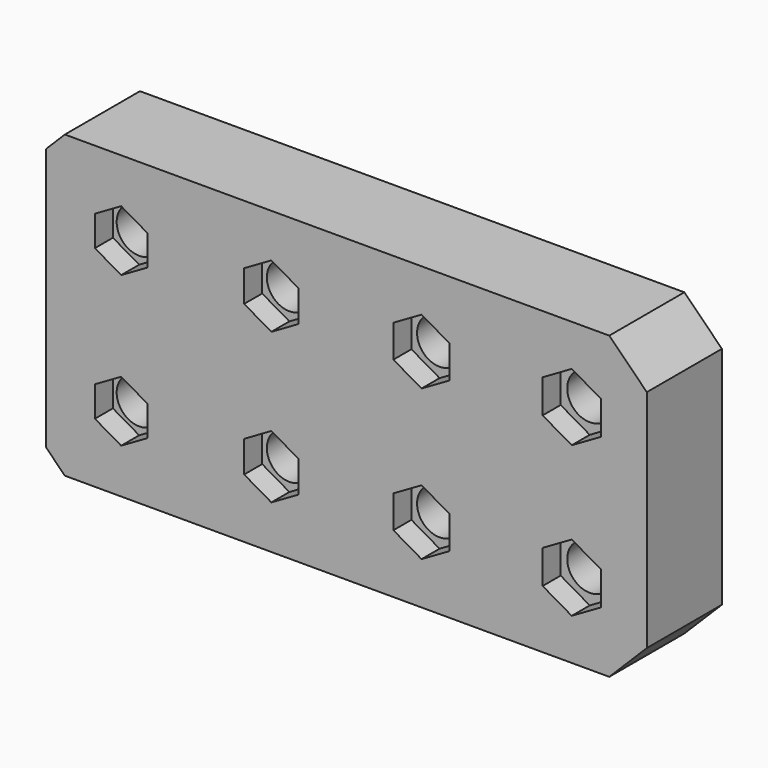
from build123d import *

# Parameters (mm, degrees)
SKETCH_W                    = 32
SKETCH_H                    = 16
PAD_DEPTH                   = 5
SKETCH001_R                 = 1.2
HOLE_DEPTH                  = 77.250567
SKETCH001_LINEARPATTERN_2_R = 1.2
HOLE_LINEARPATTERN_2_DEPTH  = 77.250567
SKETCH001_LINEARPATTERN_3_R = 1.2
HOLE_LINEARPATTERN_3_DEPTH  = 77.250567
SKETCH001_LINEARPATTERN_4_R = 1.2
HOLE_LINEARPATTERN_4_DEPTH  = 77.250567
LINEARPATTERN001_COUNT      = 2
LINEARPATTERN001_PITCH      = 8
POCKET_DEPTH                = 1.2
LINEARPATTERN002_COUNT      = 2
LINEARPATTERN002_PITCH      = 8
CHAMFER_SIZE                = 1
CHAMFER001_SIZE             = 2


with BuildPart() as part:
    # Sketch → Pad (new body)
    with BuildSketch(Plane.XZ):
        with Locations((16, 8)):
            Rectangle(SKETCH_W, SKETCH_H)
    extrude(amount=-PAD_DEPTH)

    # Sketch001 (on Face5 of Pad) → Hole (cut, through all)
    with BuildSketch(Plane.XZ):
        with Locations((4, 4)):
            Circle(SKETCH001_R)
    hole = extrude(amount=-HOLE_DEPTH, mode=Mode.SUBTRACT)

    # Sketch001 LinearPattern 2 → Hole LinearPattern 2 (cut, through all)
    with BuildSketch(Plane(origin=(8, 0, 0), x_dir=(1, 0, 0), z_dir=(0, -1, 0))):
        with Locations((4, 4)):
            Circle(SKETCH001_LINEARPATTERN_2_R)
    hole_linearpattern_2 = extrude(amount=-HOLE_LINEARPATTERN_2_DEPTH, mode=Mode.SUBTRACT)

    # Sketch001 LinearPattern 3 → Hole LinearPattern 3 (cut, through all)
    with BuildSketch(Plane(origin=(16, 0, 0), x_dir=(1, 0, 0), z_dir=(0, -1, 0))):
        with Locations((4, 4)):
            Circle(SKETCH001_LINEARPATTERN_3_R)
    hole_linearpattern_3 = extrude(amount=-HOLE_LINEARPATTERN_3_DEPTH, mode=Mode.SUBTRACT)

    # Sketch001 LinearPattern 4 → Hole LinearPattern 4 (cut, through all)
    with BuildSketch(Plane(origin=(24, 0, 0), x_dir=(1, 0, 0), z_dir=(0, -1, 0))):
        with Locations((4, 4)):
            Circle(SKETCH001_LINEARPATTERN_4_R)
    hole_linearpattern_4 = extrude(amount=-HOLE_LINEARPATTERN_4_DEPTH, mode=Mode.SUBTRACT)

    # LinearPattern001: Hole, Hole LinearPattern 2, Hole LinearPattern 3, Hole LinearPattern 4 ×2
    with Locations(*[(0, 0, i * LINEARPATTERN001_PITCH) for i in range(1, LINEARPATTERN001_COUNT)]):
        add(hole, mode=Mode.SUBTRACT)
        add(hole_linearpattern_2, mode=Mode.SUBTRACT)
        add(hole_linearpattern_3, mode=Mode.SUBTRACT)
        add(hole_linearpattern_4, mode=Mode.SUBTRACT)

    # Sketch002 (on Face4 of MultiTransform) → Pocket (cut)
    with BuildSketch(Plane.XZ):
        Polygon((4, 5.616581), (2.6, 4.80829), (2.6, 3.19171), (4, 2.383419), (5.4, 3.19171), (5.4, 4.80829), align=None)
        Polygon((12, 5.674316), (10.55, 4.837158), (10.55, 3.162842), (12, 2.325684), (13.45, 3.162842), (13.45, 4.837158), align=None)
        Polygon((20, 5.732051), (18.5, 4.866025), (18.5, 3.133975), (20, 2.267949), (21.5, 3.133975), (21.5, 4.866025), align=None)
        Polygon((28, 5.789786), (26.45, 4.894893), (26.45, 3.105107), (28, 2.210214), (29.55, 3.105107), (29.55, 4.894893), align=None)
    pocket = extrude(amount=-POCKET_DEPTH, mode=Mode.SUBTRACT)

    # LinearPattern002: Pocket ×2
    with Locations(*[(0, 0, i * LINEARPATTERN002_PITCH) for i in range(1, LINEARPATTERN002_COUNT)]):
        add(pocket, mode=Mode.SUBTRACT)

    # Chamfer
    chamfer_edges = [part.edges().sort_by_distance(p)[0] for p in [
        (0, 2.5, 16),
        (0, 2.5, 0),
    ]]
    chamfer(chamfer_edges, length=CHAMFER_SIZE)

    # Chamfer001
    chamfer001_edges = [part.edges().sort_by_distance(p)[0] for p in [
        (32, 2.5, 16),
        (32, 2.5, 0),
    ]]
    chamfer(chamfer001_edges, length=CHAMFER001_SIZE)


solid = part.part
